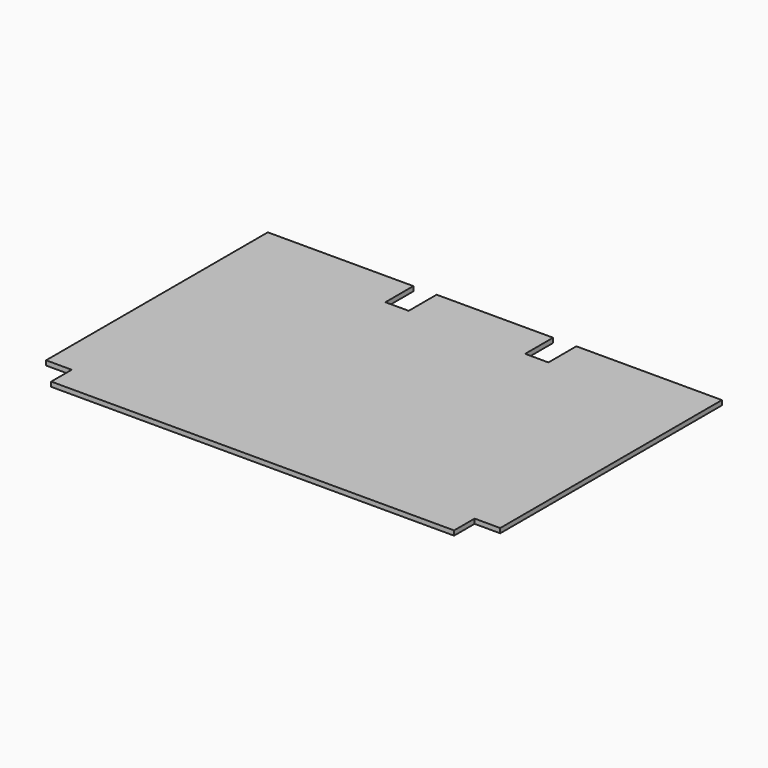
from build123d import *

# Parameters (mm, degrees)
BOX004_W     = 20
BOX004_H     = 30
BOX004_DEPTH = 10
BOX003_W     = 20
BOX003_H     = 30
BOX003_DEPTH = 10
BOX002_W     = 22
BOX002_H     = 22
BOX002_DEPTH = 10
BOX001_W     = 22
BOX001_H     = 22
BOX001_DEPTH = 10
BOX_W        = 390
BOX_H        = 260
BOX_DEPTH    = 4


with BuildPart() as corte_rail_der:
    # Box004 → Box004 (new body)
    with BuildSketch(Plane(origin=(245, 230, -3), x_dir=(1, 0, 0), z_dir=(0, 0, 1))):
        with Locations((10, 15)):
            Rectangle(BOX004_W, BOX004_H)
    extrude(amount=BOX004_DEPTH)


with BuildPart() as obj1:
    # Box003 → Box003 (new body)
    with BuildSketch(Plane(origin=(125, 230, -3), x_dir=(1, 0, 0), z_dir=(0, 0, 1))):
        with Locations((10, 15)):
            Rectangle(BOX003_W, BOX003_H)
    extrude(amount=BOX003_DEPTH)


with BuildPart() as corte_der:
    # Box002 → Box002 (new body)
    with BuildSketch(Plane(origin=(368, 0, -3), x_dir=(1, 0, 0), z_dir=(0, 0, 1))):
        with Locations((11, 11)):
            Rectangle(BOX002_W, BOX002_H)
    extrude(amount=BOX002_DEPTH)


with BuildPart() as obj2:
    # Box001 → Box001 (new body)
    with BuildSketch(Plane.XY.offset(-3)):
        with Locations((11, 11)):
            Rectangle(BOX001_W, BOX001_H)
    extrude(amount=BOX001_DEPTH)


with BuildPart() as obj3:
    # Box → Box (new body)
    with BuildSketch(Plane.XY):
        with Locations((195, 130)):
            Rectangle(BOX_W, BOX_H)
    extrude(amount=BOX_DEPTH)

    # Cut: cut obj2
    add(obj2.part, mode=Mode.SUBTRACT)

    # Cut001: cut corte_der
    add(corte_der.part, mode=Mode.SUBTRACT)

    # Cut002: cut obj1
    add(obj1.part, mode=Mode.SUBTRACT)

    # Cut003: cut corte_rail_der
    add(corte_rail_der.part, mode=Mode.SUBTRACT)


solid = obj3.part
